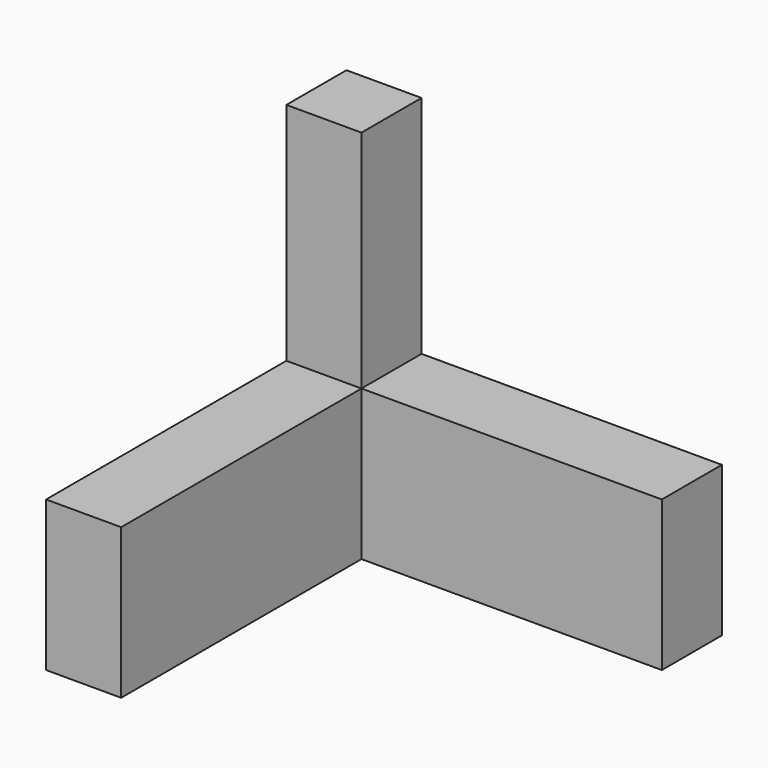
from build123d import *

# Parameters (mm, degrees)
F0_W     = 100
F0_H     = 100
F1_DEPTH = 15
F3_DEPTH = 25
F4_R     = 30
F5_DEPTH = 15.001
F6_W     = 20
F6_H     = 20
F7_DEPTH = 60
F8_W     = 80
F8_H     = 80
F9_DEPTH = 15.001


with BuildPart() as f1:
    # F0 (on Top) → F1 (new body)
    with BuildSketch(Plane.XY):
        Rectangle(F0_W, F0_H)
    extrude(amount=F1_DEPTH)

    # F2 (on face) → F3 (join)
    with BuildSketch(Plane.XY.offset(15)):
        Polygon((-30, -50), (-30, 30), (50, 30), (50, 50), (-50, 50), (-50, -50), align=None)
    extrude(amount=F3_DEPTH)

    # F4 (on face) → F5 (cut, through all)
    with BuildSketch(Plane.XY.offset(15)):
        with Locations((10, -10)):
            Circle(F4_R)
    extrude(amount=-F5_DEPTH, mode=Mode.SUBTRACT)

    # F6 (on face) → F7 (join)
    with BuildSketch(Plane.XY.offset(40)):
        with Locations((-40, 40)):
            Rectangle(F6_W, F6_H)
    extrude(amount=F7_DEPTH)

    # F8 (on face) → F9 (cut, through all)
    with BuildSketch(Plane.XY.offset(15)):
        with Locations((10, -10)):
            Rectangle(F8_W, F8_H)
    extrude(amount=-F9_DEPTH, mode=Mode.SUBTRACT)


solid = f1.part
